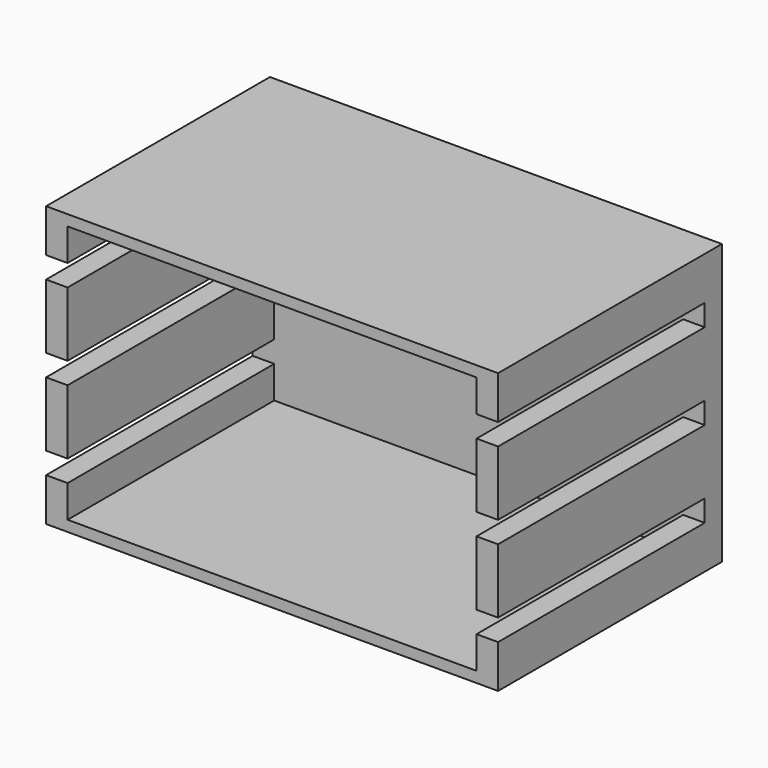
from build123d import *

# Parameters (mm, degrees)
F0_W     = 266.7
F0_H     = 165.1
F1_DEPTH = 165.1
F2_W     = 241.3
F2_H     = 152.4
F3_DEPTH = 152.4
F4_W     = 12.7
F4_H     = 12.7
F5_DEPTH = 152.4


with BuildPart() as f1:
    # F0 (on Front) → F1 (new body)
    with BuildSketch(Plane.XZ):
        with Locations((-17.048836, -1.777712)):
            Rectangle(F0_W, F0_H)
    extrude(amount=-F1_DEPTH)

    # F2 (on face) → F3 (cut)
    with BuildSketch(Plane.XZ):
        with Locations((-17.048836, -1.777712)):
            Rectangle(F2_W, F2_H)
    extrude(amount=-F3_DEPTH, mode=Mode.SUBTRACT)

    # F4 (on face) → F5 (cut)
    with BuildSketch(Plane.XZ):
        with Locations((-144.048836, -52.577712)):
            Rectangle(F4_W, F4_H)
        with Locations((-144.048836, -1.777712)):
            Rectangle(F4_W, F4_H)
        with Locations((-144.048836, 49.022288)):
            Rectangle(F4_W, F4_H)
        with Locations((109.951164, -52.577712)):
            Rectangle(F4_W, F4_H)
        with Locations((109.951164, -1.777712)):
            Rectangle(F4_W, F4_H)
        with Locations((109.951164, 49.022288)):
            Rectangle(F4_W, F4_H)
    extrude(amount=-F5_DEPTH, mode=Mode.SUBTRACT)


solid = f1.part
